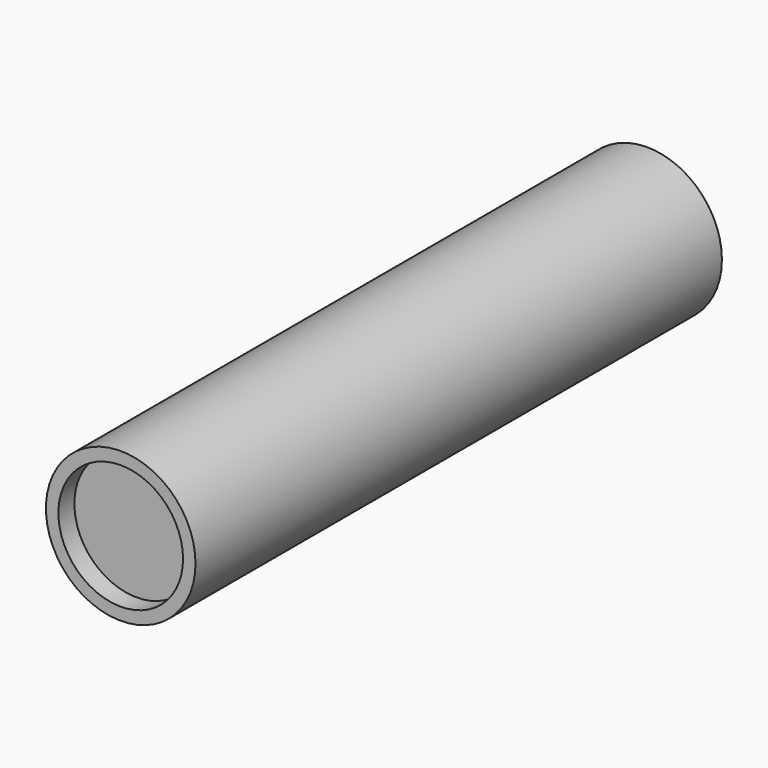
from build123d import *

# Parameters (mm, degrees)
F0_R     = 4.7625
F1_DEPTH = 41.91
F2_R     = 3.96875
F3_DEPTH = 38.1
F4_R     = 3.96875
F5_DEPTH = 1.27


with BuildPart() as f1:
    # F0 (on Front) → F1 (new body)
    with BuildSketch(Plane.XZ):
        Circle(F0_R)
    extrude(amount=F1_DEPTH)

    # F2 (on face) → F3 (cut)
    with BuildSketch(Plane(origin=(0, 0, 0), x_dir=(-1, 0, 0), z_dir=(0, 1, 0))):
        Circle(F2_R)
    extrude(amount=-F3_DEPTH, mode=Mode.SUBTRACT)

    # F4 (on face) → F5 (cut)
    with BuildSketch(Plane.XZ.offset(41.91)):
        Circle(F4_R)
    extrude(amount=-F5_DEPTH, mode=Mode.SUBTRACT)


solid = f1.part
